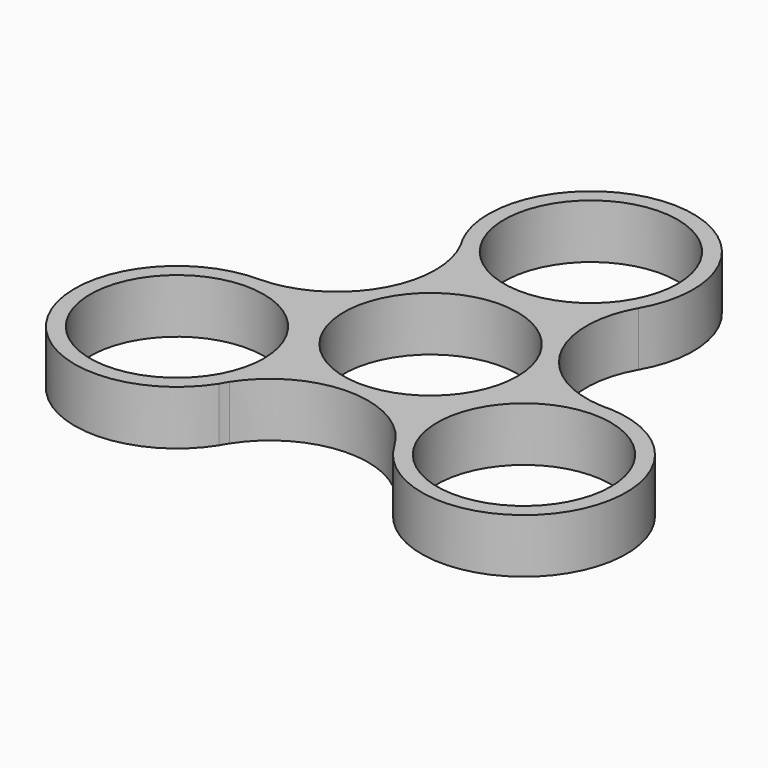
from build123d import *

# Parameters (mm, degrees)
F0_R     = 11.2
F1_DEPTH = 7


with BuildPart() as f1:
    # F0 (on Top) → F1 (new body)
    with BuildSketch(Plane.XY):
        with BuildLine():
            ThreePointArc((21.845364, 0.267829), (11.320024, 6.836361), (11.431535, 19.242648))
            ThreePointArc((11.431535, 19.242648), (0.298709, 39.039268), (-11.71846, 19.766654))
            ThreePointArc((-11.71846, 19.766654), (-11.425584, 19.281984), (-11.154628, 18.784726))
            ThreePointArc((-11.154628, 18.784726), (-11.580474, 6.385248), (-22.38039, 0.278676))
            ThreePointArc((-22.38039, 0.278676), (-33.958352, -19.260944), (-11.259195, -20.031811))
            ThreePointArc((-11.259195, -20.031811), (-10.985896, -19.535837), (-10.690736, -19.052554))
            ThreePointArc((-10.690736, -19.052554), (0.26045, -13.221608), (10.948854, -19.521324))
            ThreePointArc((10.948854, -19.521324), (33.659643, -19.778324), (22.977655, 0.265157))
            ThreePointArc((22.977655, 0.265157), (22.41148, 0.253854), (21.845364, 0.267829))
        make_face()
        with Locations((-22.38039, -12.921324)):
            Circle(F0_R, mode=Mode.SUBTRACT)
        with Locations((22.38039, -12.921324)):
            Circle(F0_R, mode=Mode.SUBTRACT)
        Circle(F0_R, mode=Mode.SUBTRACT)
        with Locations((0, 25.842648)):
            Circle(F0_R, mode=Mode.SUBTRACT)
    extrude(amount=F1_DEPTH)


solid = f1.part
